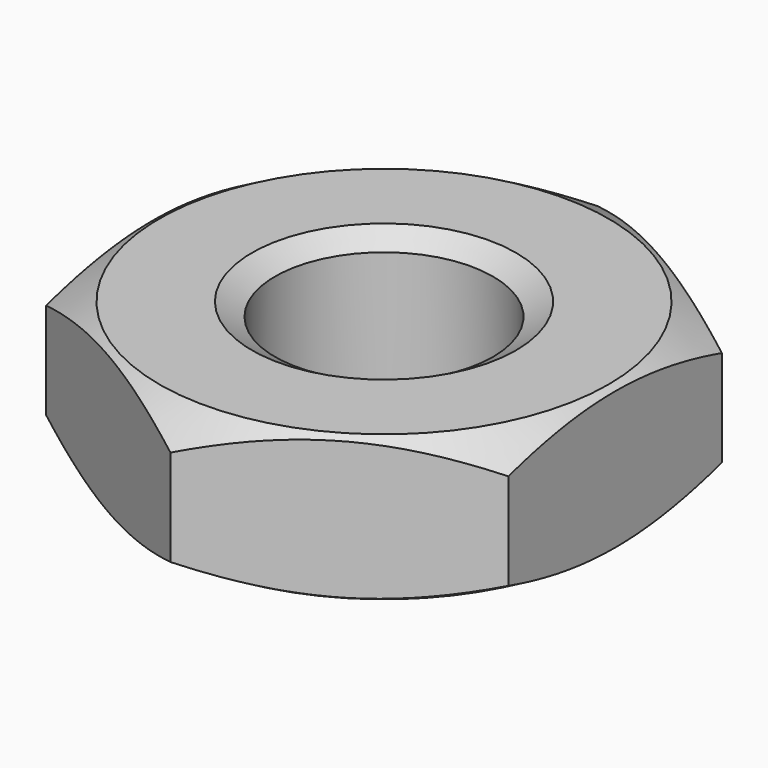
from build123d import *

# Parameters (mm, degrees)
SKETCH001_R  = 4.5
POCKET_DEPTH = 2.2


with BuildPart() as part:
    # Sketch → Revolution (revolve)
    with BuildSketch(Plane.XZ):
        Polygon((2, 0), (1.65, 0.202073), (1.65, 1.997927), (2, 2.2), (3.4, 2.2), (4.5, 1.564915), (4.5, 0.635085), (3.4, 0), align=None)
    revolve(axis=Axis((0, 0, 0), (0, 0, 1)))

    # Sketch001 → Pocket (cut)
    with BuildSketch(Plane(origin=(0, 0, 2.2), x_dir=(-1, 0, 0), z_dir=(0, 0, 1))):
        Circle(SKETCH001_R)
        Polygon((-3.5, 2.020726), (-3.5, -2.020726), (0, -4.041452), (3.5, -2.020726), (3.5, 2.020726), (0, 4.041452), align=None, mode=Mode.SUBTRACT)
    extrude(amount=-POCKET_DEPTH, mode=Mode.SUBTRACT)


solid = part.part
